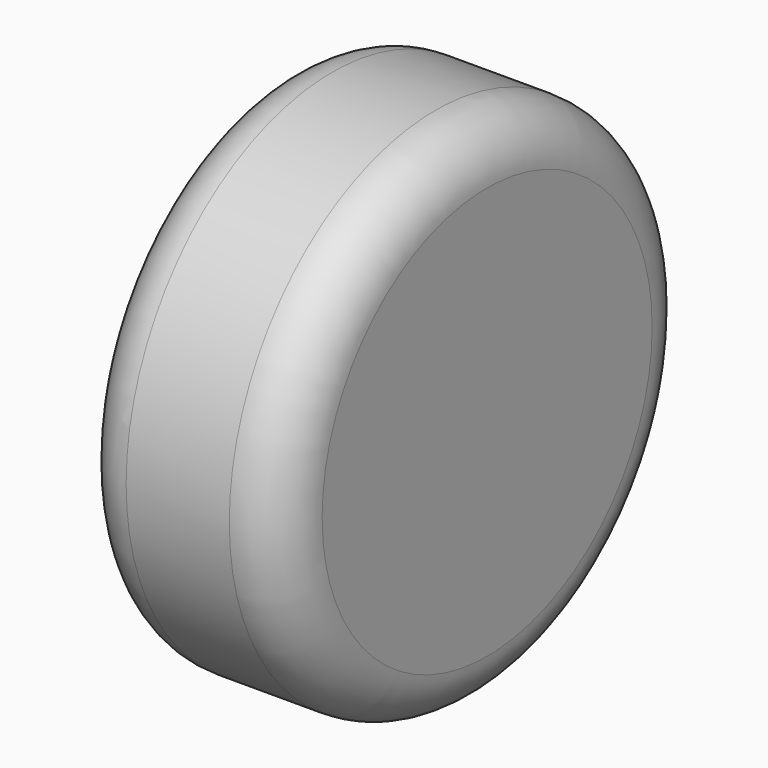
from build123d import *

# Parameters (mm, degrees)
F0_R     = 63.5
F1_DEPTH = 25.4
F2_R     = 12.7


with BuildPart() as f1:
    # F0 (on Right) → F1 (new body, symmetric)
    with BuildSketch(Plane.YZ):
        Circle(F0_R)
    extrude(amount=F1_DEPTH, both=True)

    # F2
    f2_edges = [f1.edges().sort_by_distance(p)[0] for p in [
        (25.4, -63.5, 0),
        (-25.4, -63.5, 0),
    ]]
    fillet(f2_edges, radius=F2_R)


solid = f1.part
